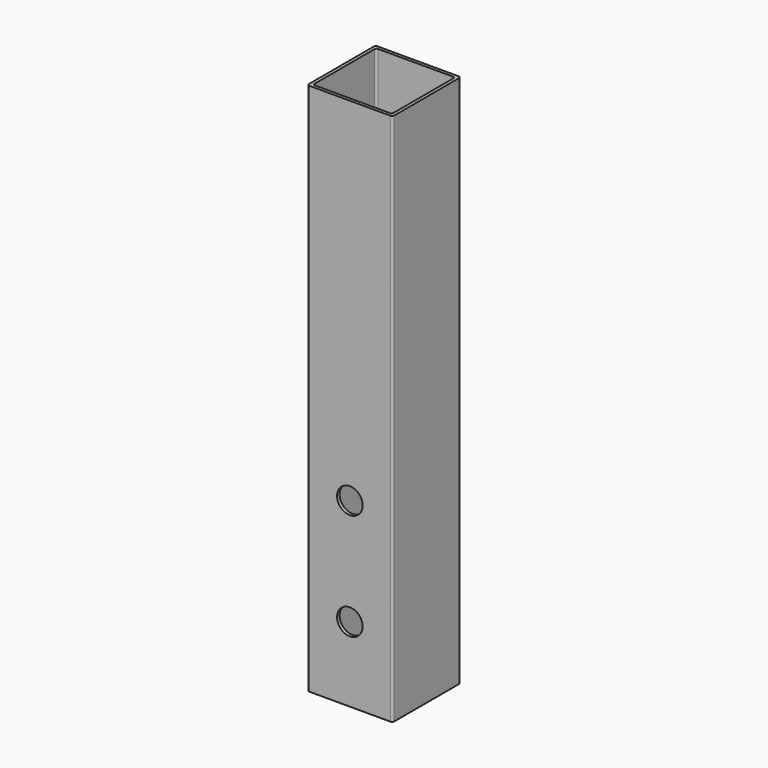
from build123d import *

# Parameters (mm, degrees)
F1_DEPTH = 500
F4_D     = 24


with BuildPart() as f1:
    # F0 (on Top) → F1 (new body)
    with BuildSketch(Plane.XY):
        with BuildLine():
            Line((-38, -40), (38, -40))
            ThreePointArc((38, -40), (39.4142135624, -39.4142135624), (40, -38))
            Line((40, -38), (40, 38))
            ThreePointArc((40, 38), (39.4142135624, 39.4142135624), (38, 40))
            Line((38, 40), (-38, 40))
            ThreePointArc((-38, 40), (-39.4142135624, 39.4142135624), (-40, 38))
            Line((-40, 38), (-40, -38))
            ThreePointArc((-40, -38), (-39.4142135624, -39.4142135624), (-38, -40))
        make_face()
        with BuildLine():
            Line((-35, 37), (35, 37))
            ThreePointArc((35, 37), (36.4142135624, 36.4142135624), (37, 35))
            Line((37, 35), (37, -35))
            ThreePointArc((37, -35), (36.4142135624, -36.4142135624), (35, -37))
            Line((35, -37), (-35, -37))
            ThreePointArc((-35, -37), (-36.4142135624, -36.4142135624), (-37, -35))
            Line((-37, -35), (-37, 35))
            ThreePointArc((-37, 35), (-36.4142135624, 36.4142135624), (-35, 37))
        make_face(mode=Mode.SUBTRACT)
    extrude(amount=F1_DEPTH)

    # F4 (through all)
    with Locations(Plane.XZ.offset(40)):
        with Locations((0, 170), (0, 70)):
            Hole(F4_D / 2)


solid = f1.part
